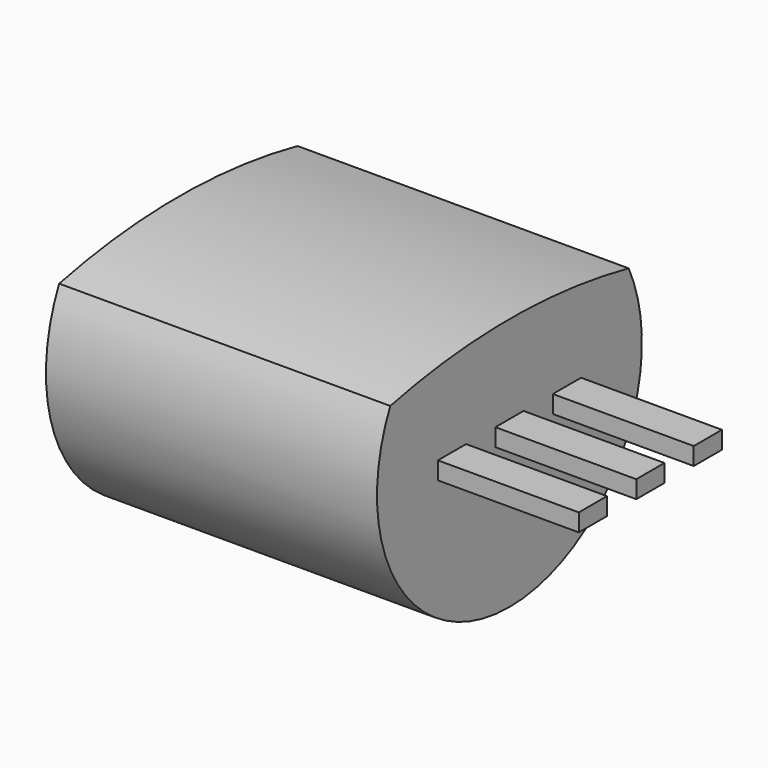
from build123d import *

# Parameters (mm, degrees)
F1_DEPTH = 4.7
F2_W     = 0.5
F2_H     = 0.25
F3_DEPTH = 2


with BuildPart() as f1:
    # F0 (on Right) → F1 (new body)
    with BuildSketch(Plane.YZ):
        with BuildLine():
            ThreePointArc((13.7373347581, 2.2654625069), (11.6220312193, 2.4917482212), (9.5067276805, 2.2654625069))
            ThreePointArc((9.5067276805, 2.2654625069), (11.6220312193, -1.1082517788), (13.7373347581, 2.2654625069))
        make_face()
    extrude(amount=F1_DEPTH)

    # F2 (on face) → F3 (join)
    with BuildSketch(Plane.YZ.offset(4.7)):
        with Locations((10.6020312193, 1.1167482212)):
            Rectangle(F2_W, F2_H)
        with Locations((11.6220312193, 1.1167482212)):
            Rectangle(F2_W, F2_H)
        with Locations((12.6420312193, 1.1167482212)):
            Rectangle(F2_W, F2_H)
    extrude(amount=F3_DEPTH)


solid = f1.part
